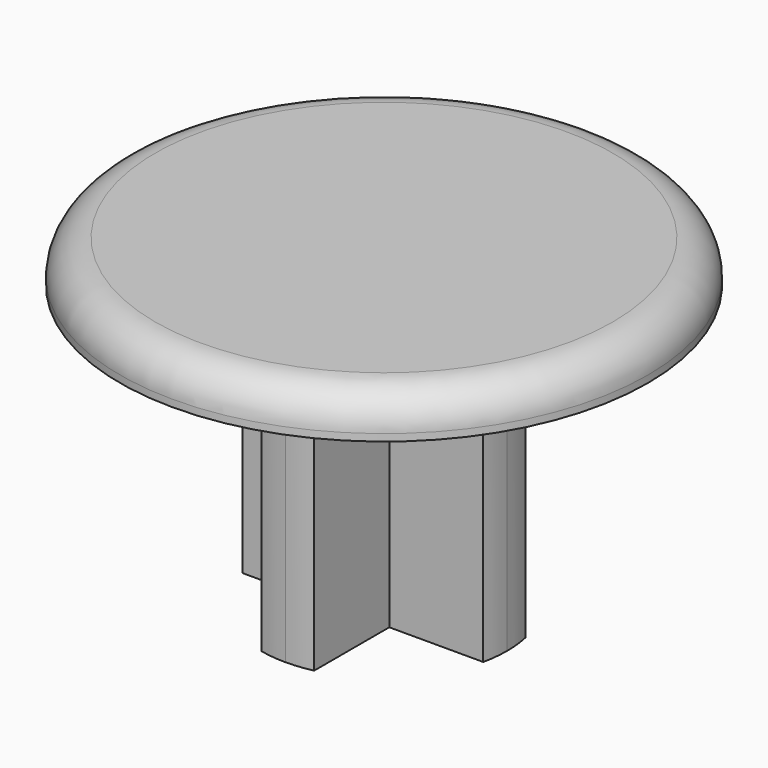
from build123d import *

# Parameters (mm, degrees)
F0_R      = 19.05
F1_DEPTH  = 3.048
F2_R      = 2.54
F3_W      = 17.78
F3_H      = 3.81
F4_W      = 3.81
F4_H      = 6.985
F4_W_2    = 6.985
F4_H_2    = 3.81
F5_DEPTH  = 20.32
F7_DEPTH  = 20.32
F8_DEPTH  = 20.32
F9_DEPTH  = 20.32
F10_DEPTH = 20.32
F11_DEPTH = 20.32


with BuildPart() as f1:
    # F0 (on Top) → F1 (new body)
    with BuildSketch(Plane.XY):
        Circle(F0_R)
    extrude(amount=F1_DEPTH)

    # F2
    f2_edges = [f1.edges().sort_by_distance(p)[0] for p in [
        (-19.05, 0, 3.048),
    ]]
    fillet(f2_edges, radius=F2_R)

    # F3 (on face) + F4 (on face) → F5 (join)
    with BuildSketch(Plane(origin=(0, 0, 0), x_dir=(1, 0, 0), z_dir=(0, 0, -1))):
        Rectangle(F3_W, F3_H)
    with BuildSketch(Plane(origin=(0, 0, 0), x_dir=(1, 0, 0), z_dir=(0, 0, -1))):
        with Locations((0, -5.3975)):
            Rectangle(F4_W, F4_H)
        with Locations((0, 5.3975)):
            Rectangle(F4_W, F4_H)
        with Locations((-5.3975, 0)):
            Rectangle(F4_W_2, F4_H_2)
        with Locations((5.3975, 0)):
            Rectangle(F4_W_2, F4_H_2)
        Rectangle(F4_W, F4_H_2)
    extrude(amount=F5_DEPTH)

    # F6 (on face) → F7 (cut)
    with BuildSketch(Plane(origin=(0, 0, -20.32), x_dir=(1, 0, 0), z_dir=(0, 0, -1))):
        with BuildLine():
            ThreePointArc((0, 8.89), (0.9580800544, 8.8382228196), (1.905, 8.6834944003))
            Line((1.905, 8.6834944003), (1.905, 8.89))
            Line((1.905, 8.89), (0, 8.89))
        make_face()
    extrude(amount=-F7_DEPTH, mode=Mode.SUBTRACT)

    # F6 (on face) → F8 (cut)
    with BuildSketch(Plane(origin=(0, 0, -20.32), x_dir=(1, 0, 0), z_dir=(0, 0, -1))):
        with BuildLine():
            ThreePointArc((-1.905, 8.6834944003), (-0.9580800544, 8.8382228196), (0, 8.89))
            Line((0, 8.89), (-1.905, 8.89))
            Line((-1.905, 8.89), (-1.905, 8.6834944003))
        make_face()
    extrude(amount=-F8_DEPTH, mode=Mode.SUBTRACT)

    # F6 (on face) → F9 (cut)
    with BuildSketch(Plane(origin=(0, 0, -20.32), x_dir=(1, 0, 0), z_dir=(0, 0, -1))):
        with BuildLine():
            Line((-8.89, -1.905), (-8.6834944003, -1.905))
            ThreePointArc((-8.6834944003, -1.905), (-8.8382228196, -0.9580800544), (-8.89, 0))
            Line((-8.89, 0), (-8.89, -1.905))
        make_face()
    extrude(amount=-F9_DEPTH, mode=Mode.SUBTRACT)

    # F6 (on face) → F10 (cut)
    with BuildSketch(Plane(origin=(0, 0, -20.32), x_dir=(1, 0, 0), z_dir=(0, 0, -1))):
        with BuildLine():
            ThreePointArc((-8.89, 0), (-8.8382228196, 0.9580800544), (-8.6834944003, 1.905))
            Line((-8.6834944003, 1.905), (-8.89, 1.905))
            Line((-8.89, 1.905), (-8.89, 0))
        make_face()
    extrude(amount=-F10_DEPTH, mode=Mode.SUBTRACT)

    # F6 (on face) → F11 (cut)
    with BuildSketch(Plane(origin=(0, 0, -20.32), x_dir=(1, 0, 0), z_dir=(0, 0, -1))):
        with BuildLine():
            Line((1.905, -8.89), (1.905, -8.6834944003))
            ThreePointArc((1.905, -8.6834944003), (0.9580800544, -8.8382228196), (0, -8.89))
            Line((0, -8.89), (1.905, -8.89))
        make_face()
        with BuildLine():
            Line((-1.905, -8.89), (0, -8.89))
            ThreePointArc((0, -8.89), (-0.9580800544, -8.8382228196), (-1.905, -8.6834944003))
            Line((-1.905, -8.6834944003), (-1.905, -8.89))
        make_face()
        with BuildLine():
            Line((8.89, -1.905), (8.89, 0))
            ThreePointArc((8.89, 0), (8.8382228196, -0.9580800544), (8.6834944003, -1.905))
            Line((8.6834944003, -1.905), (8.89, -1.905))
        make_face()
        with BuildLine():
            ThreePointArc((8.6834944003, 1.905), (8.8382228196, 0.9580800544), (8.89, 0))
            Line((8.89, 0), (8.89, 1.905))
            Line((8.89, 1.905), (8.6834944003, 1.905))
        make_face()
    extrude(amount=-F11_DEPTH, mode=Mode.SUBTRACT)


solid = f1.part
